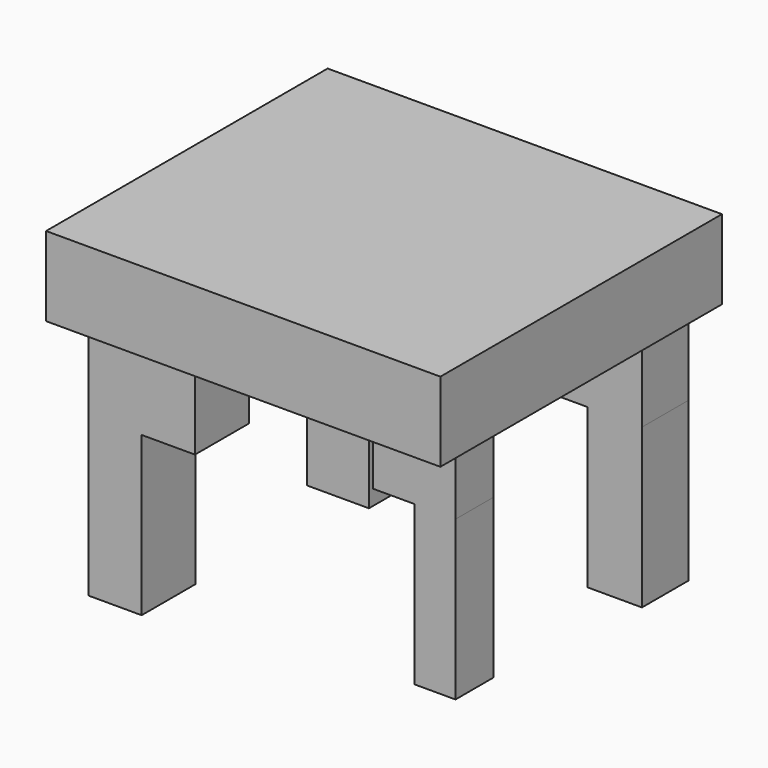
from build123d import *

# Parameters (mm, degrees)
F0_W      = 126.176424
F0_H      = 112.621017
F1_DEPTH  = 25.4
F2_W      = 26.31655
F2_H      = 15.193862
F3_DEPTH  = 25.4
F4_W      = 34.140256
F4_H      = 21.598417
F5_DEPTH  = 25.4
F7_W      = 34.864582
F7_H      = 18.686838
F8_DEPTH  = 25.4
F6_W      = 39.589775
F6_H      = 19.492015
F11_DEPTH = 25.4
F9_W      = 17.070128
F9_H      = 21.598417
F12_DEPTH = 50.8
F10_W     = 13.158275
F10_H     = 15.193862
F13_DEPTH = 50.8
F14_W     = 17.432291
F14_H     = 18.686838
F15_DEPTH = 50.8
F16_W     = 19.794888
F16_H     = 19.492015
F17_DEPTH = 50.8


with BuildPart() as f1:
    # F0 (on Top) → F1 (new body)
    with BuildSketch(Plane.XY):
        with Locations((-4.600737, 5.364046)):
            Rectangle(F0_W, F0_H)
    extrude(amount=F1_DEPTH)

    # F2 (on face) → F3 (join)
    with BuildSketch(Plane(origin=(0, 0, 0), x_dir=(1, 0, 0), z_dir=(0, 0, -1))):
        with Locations((35.497902, 25.018883)):
            Rectangle(F2_W, F2_H)
    extrude(amount=F3_DEPTH)

    # F4 (on face) → F5 (join)
    with BuildSketch(Plane(origin=(0, 0, 0), x_dir=(1, 0, 0), z_dir=(0, 0, -1))):
        with Locations((-41.06454, 35.200375)):
            Rectangle(F4_W, F4_H)
    extrude(amount=F5_DEPTH)

    # F7 (on face) → F8 (join)
    with BuildSketch(Plane(origin=(0, 0, 0), x_dir=(1, 0, 0), z_dir=(0, 0, -1))):
        with Locations((36.498174, -44.728223)):
            Rectangle(F7_W, F7_H)
    extrude(amount=F8_DEPTH)

    # F6 (on face) → F11 (join)
    with BuildSketch(Plane(origin=(0, 0, 0), x_dir=(1, 0, 0), z_dir=(0, 0, -1))):
        with Locations((-32.867522, -44.407618)):
            Rectangle(F6_W, F6_H)
    extrude(amount=F11_DEPTH)

    # F9 (on face) → F12 (join)
    with BuildSketch(Plane(origin=(0, 0, -25.4), x_dir=(1, 0, 0), z_dir=(0, 0, -1))):
        with Locations((-49.599604, 35.200375)):
            Rectangle(F9_W, F9_H)
    extrude(amount=F12_DEPTH)

    # F10 (on face) → F13 (join)
    with BuildSketch(Plane(origin=(0, 0, -25.4), x_dir=(1, 0, 0), z_dir=(0, 0, -1))):
        with Locations((42.077039, 25.018883)):
            Rectangle(F10_W, F10_H)
    extrude(amount=F13_DEPTH)

    # F14 (on face) → F15 (join)
    with BuildSketch(Plane(origin=(0, 0, -25.4), x_dir=(1, 0, 0), z_dir=(0, 0, -1))):
        with Locations((45.21432, -44.728223)):
            Rectangle(F14_W, F14_H)
    extrude(amount=F15_DEPTH)

    # F16 (on face) → F17 (join)
    with BuildSketch(Plane(origin=(0, 0, -25.4), x_dir=(1, 0, 0), z_dir=(0, 0, -1))):
        with Locations((-42.764966, -44.407618)):
            Rectangle(F16_W, F16_H)
    extrude(amount=F17_DEPTH)


solid = f1.part
